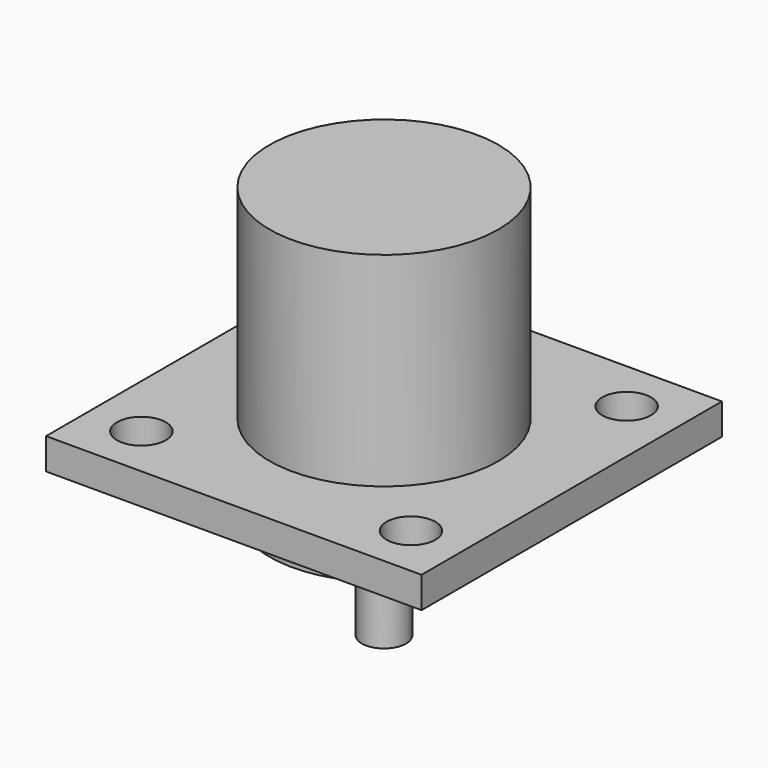
from build123d import *

# Parameters (mm, degrees)
SKETCH003_W  = 25.4
SKETCH003_H  = 25.4
PAD003_DEPTH = 2.1082
SKETCH004_R  = 1.651
POCKET_DEPTH = 2.1092
SKETCH005_R  = 7.747
PAD004_DEPTH = 15.9004
SKETCH006_R  = 7.747
PAD005_DEPTH = 3.598333
SKETCH007_R  = 1.4986
PAD006_DEPTH = 10.795


with BuildPart() as part:
    # Sketch003 → Pad003 (new body)
    with BuildSketch(Plane.XY):
        with Locations((12.7, 12.7)):
            Rectangle(SKETCH003_W, SKETCH003_H)
    extrude(amount=PAD003_DEPTH)

    # Sketch004 (on Face6 of Pad003) → Pocket (cut, through all)
    with BuildSketch(Plane.XY.offset(2.1082)):
        with Locations((3.5814, 21.8186)):
            Circle(SKETCH004_R)
        with Locations((21.8186, 21.8186)):
            Circle(SKETCH004_R)
        with Locations((21.8186, 3.5814)):
            Circle(SKETCH004_R)
        with Locations((3.5814, 3.5814)):
            Circle(SKETCH004_R)
    extrude(amount=-POCKET_DEPTH, mode=Mode.SUBTRACT)

    # Sketch005 → Pad004 (join)
    with BuildSketch(Plane.XY):
        with Locations((12.7, 12.7)):
            Circle(SKETCH005_R)
    extrude(amount=PAD004_DEPTH)

    # Sketch006 → Pad005 (join)
    with BuildSketch(Plane.XY):
        with Locations((12.7, 12.7)):
            Circle(SKETCH006_R)
    extrude(amount=-PAD005_DEPTH)

    # Sketch007 → Pad006 (join)
    with BuildSketch(Plane.XY):
        with Locations((12.7, 12.7)):
            Circle(SKETCH007_R)
    extrude(amount=-PAD006_DEPTH)


with BuildPart() as part_1:
    # Body001 placement: moved
    add(part.part.moved(Location((35.56, 0, 0))))


solid = part_1.part
